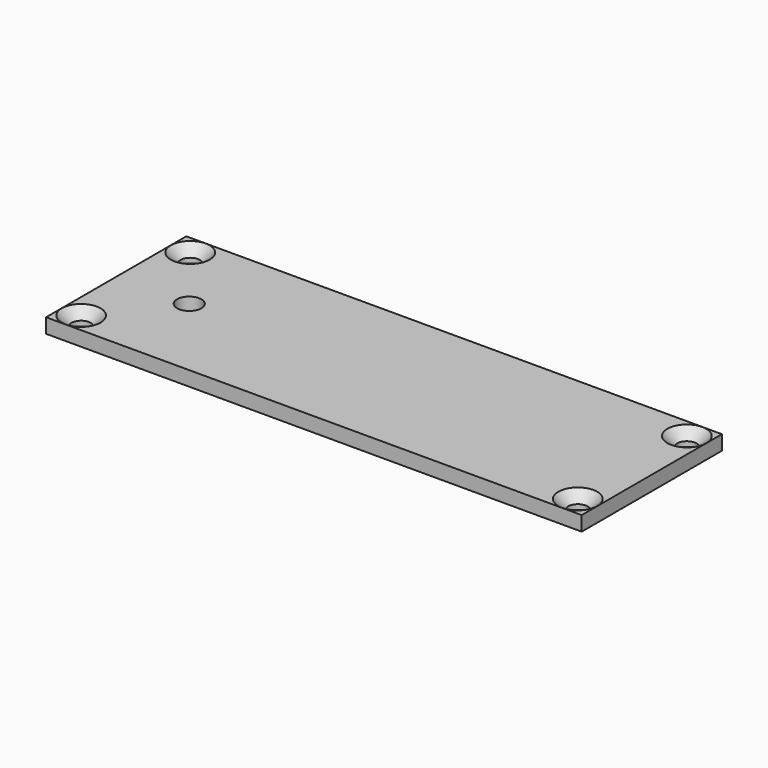
from build123d import *

# Parameters (mm, degrees)
SKETCH_W        = 110
SKETCH_H        = 36
PAD_DEPTH       = 3
SKETCH002_R     = 2
POCKET_DEPTH    = 3
CHAMFER_SIZE    = 1.99
SKETCH003_R     = 2.5
POCKET001_DEPTH = 3


with BuildPart() as part:
    # Sketch → Pad (new body)
    with BuildSketch(Plane.XY):
        Rectangle(SKETCH_W, SKETCH_H)
    extrude(amount=PAD_DEPTH)

    # Sketch002 (on Face6 of Pad) → Pocket (cut)
    with BuildSketch(Plane.XY.offset(3)):
        with Locations((-51, 14)):
            Circle(SKETCH002_R)
        with Locations((-51, -14)):
            Circle(SKETCH002_R)
        with Locations((51, -14)):
            Circle(SKETCH002_R)
        with Locations((51, 14)):
            Circle(SKETCH002_R)
    extrude(amount=-POCKET_DEPTH, mode=Mode.SUBTRACT)

    # Chamfer
    chamfer_edges = [part.edges().sort_by_distance(p)[0] for p in [
        (-53, 14, 3),
        (-53, -14, 3),
        (49, -14, 3),
        (49, 14, 3),
    ]]
    chamfer(chamfer_edges, length=CHAMFER_SIZE)

    # Sketch003 (on Face1 of Chamfer) → Pocket001 (cut)
    with BuildSketch(Plane.XY.offset(3)):
        with Locations((-40, 0)):
            Circle(SKETCH003_R)
    extrude(amount=-POCKET001_DEPTH, mode=Mode.SUBTRACT)


solid = part.part
